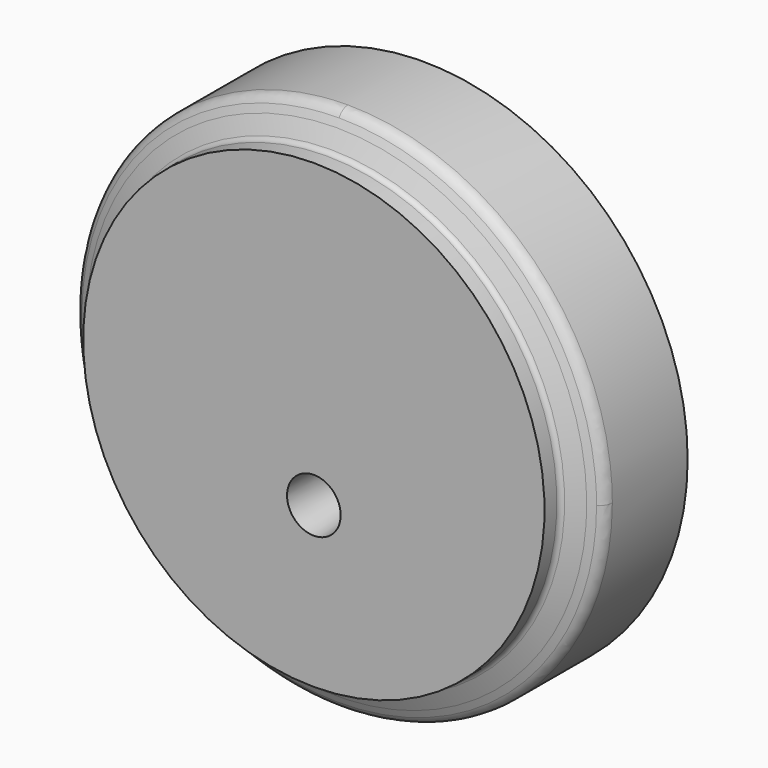
from build123d import *

# Parameters (mm, degrees)
F0_R     = 284
F1_DEPTH = 147
F3_D     = 40
F4_R     = 28.815
F5_DEPTH = 200
F5_TAPER = 3.58
F7_R     = 65
F8_DEPTH = 13
F11_R    = 13


with BuildPart() as f1:
    # F0 (on Front) → F1 (new body)
    with BuildSketch(Plane.XZ):
        Circle(F0_R)
    extrude(amount=F1_DEPTH)

    # F3 (through all)
    with Locations(Plane.XZ.offset(147)):
        with Locations((0, -76)):
            Hole(F3_D / 2)

    # F4 (on face) → F5 (cut)
    with BuildSketch(Plane.XZ.offset(147)):
        with Locations((0, -76)):
            Circle(F4_R)
    extrude(amount=-F5_DEPTH, taper=F5_TAPER, mode=Mode.SUBTRACT)

    # F7 (on face) → F8 (cut)
    with BuildSketch(Plane(origin=(0, 0, 0), x_dir=(-1, 0, 0), z_dir=(0, 1, 0))):
        with Locations((0, -76.0070607066)):
            Circle(F7_R)
    extrude(amount=-F8_DEPTH, mode=Mode.SUBTRACT)

    # F9 (on Right) → F10 (revolve, cut)
    with BuildSketch(Plane.YZ):
        with BuildLine():
            Line((-116.54, 268.8), (-102.9912134112, 297.8554666042))
            Line((-102.9912134112, 297.8554666042), (-166.7411327362, 297.8554666042))
            Line((-166.7411327362, 297.8554666042), (-150.4560261965, 257.221698761))
            Line((-150.4560261965, 257.221698761), (-162.0599727805, 247.8))
            Line((-162.0599727805, 247.8), (-130.4097104904, 247.8))
            ThreePointArc((-130.4097104904, 247.8), (-126.970992997, 248.8022947468), (-124.6093406534, 251.4952431249))
            Line((-124.6093406534, 251.4952431249), (-116.54, 268.8))
        make_face()
    revolve(axis=Axis((0, -103.910677135, 0), (0, -1, 0)), mode=Mode.SUBTRACT)

    # F11
    f11_edges = [f1.edges().sort_by_distance(p)[0] for p in [
        (-200.818326, -109.452124, -200.818326),
        (200.818326, -109.452124, 200.818326),
    ]]
    fillet(f11_edges, radius=F11_R)

    # F14: sweep along a path in F12
    with BuildLine(Plane(origin=(0, 0, 0), x_dir=(-1, 0, 0), z_dir=(0, 1, 0))) as f14_path:
        ThreePointArc((0, -228.1088728905), (122.7460108736, -165.7605143402), (144.7944915292, -29.8643572934))
    # F13 (on Right) → F14 (sweep, cut)
    with BuildSketch(Plane.YZ):
        with BuildLine():
            Line((-4.6, -230.45), (-4.6, -225.55))
            Line((-4.6, -225.55), (-8.0746106855, -224.0030036525))
            ThreePointArc((-8.0746106855, -224.0030036525), (-8.835711228, -224.0629035643), (-9.2, -224.7338400186))
            Line((-9.2, -224.7338400186), (-9.2, -227.7760519524))
            Line((-9.2, -227.7760519524), (-9.2, -228.2239480476))
            Line((-9.2, -228.2239480476), (-9.2, -231.2661599814))
            ThreePointArc((-9.2, -231.2661599814), (-8.835711228, -231.9370964357), (-8.0746106855, -231.9969963475))
            Line((-8.0746106855, -231.9969963475), (-4.6, -230.45))
        make_face()
    sweep(path=f14_path.line, mode=Mode.SUBTRACT)


solid = f1.part
